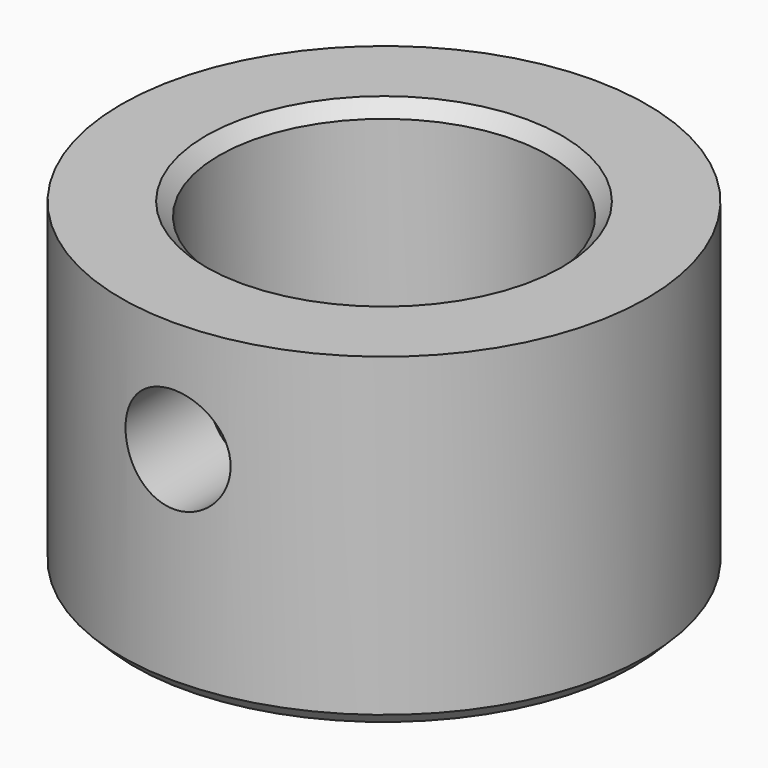
from build123d import *

# Parameters (mm, degrees)
F0_R     = 20
F1_DEPTH = 25
F2_R     = 12.55
F3_DEPTH = 20
F4_R     = 4
F5_DEPTH = 25
F6_SIZE  = 1


with BuildPart() as f1:
    # F0 (on Top) → F1 (new body)
    with BuildSketch(Plane.XY):
        Circle(F0_R)
    extrude(amount=F1_DEPTH)

    # F2 (on face) → F3 (cut)
    with BuildSketch(Plane.XY.offset(25)):
        Circle(F2_R)
    extrude(amount=-F3_DEPTH, mode=Mode.SUBTRACT)

    # F4 (on Front) → F5 (cut)
    with BuildSketch(Plane.XZ):
        with Locations((0, 16.5)):
            Circle(F4_R)
    extrude(amount=F5_DEPTH, mode=Mode.SUBTRACT)

    # F6
    f6_edges = [f1.edges().sort_by_distance(p)[0] for p in [
        (-20, 0, 0),
        (-12.55, 0, 25),
    ]]
    chamfer(f6_edges, length=F6_SIZE)


solid = f1.part
